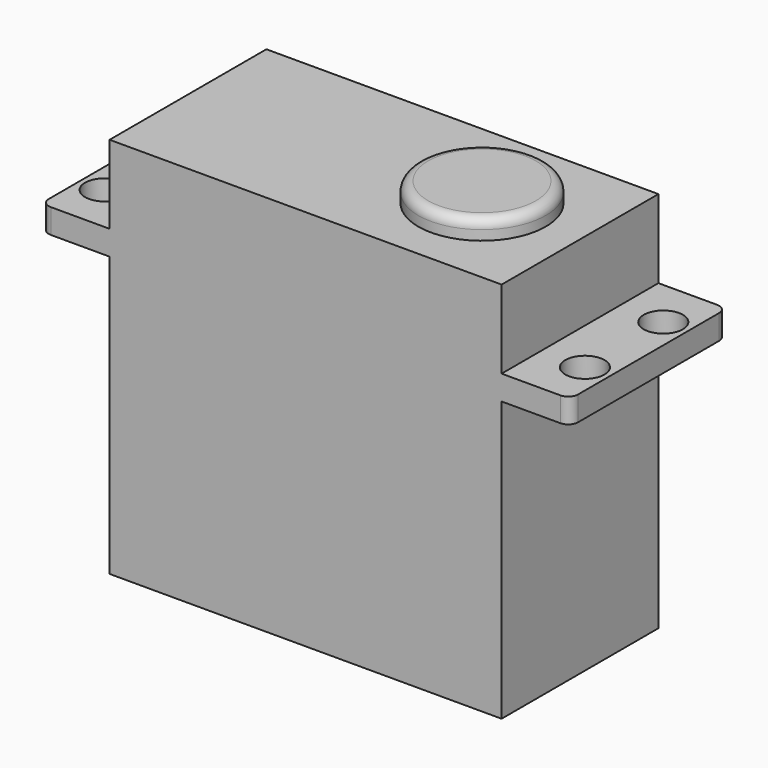
from build123d import *

# Parameters (mm, degrees)
PAD050_DEPTH    = 10
SKETCH087_R     = 2
POCKET033_DEPTH = 47.001
FILLET024_R     = 1
SKETCH235_R     = 6.5
PAD096_DEPTH    = 2
FILLET011_R     = 1


with BuildPart() as part:
    # Sketch086 → Pad050 (new body, symmetric)
    with BuildSketch(Plane.XZ):
        Polygon((-37, -18.5), (-37, -16), (-30, -16), (-30, -8), (10, -8), (10, -16), (17, -16), (17, -18.5), (10, -18.5), (10, -47), (-30, -47), (-30, -18.5), align=None)
    extrude(amount=PAD050_DEPTH, both=True)

    # Sketch087 → Pocket033 (cut, through all)
    with BuildSketch(Plane.XY):
        with Locations((14.5, 5)):
            Circle(SKETCH087_R)
        with Locations((14.5, -5)):
            Circle(SKETCH087_R)
        with Locations((-34.5, 5)):
            Circle(SKETCH087_R)
        with Locations((-34.5, -5)):
            Circle(SKETCH087_R)
    extrude(amount=-POCKET033_DEPTH, mode=Mode.SUBTRACT)

    # Fillet024
    fillet024_edges = [part.edges().sort_by_distance(p)[0] for p in [
        (17, -10, -17.25),
        (17, 10, -17.25),
        (-37, -10, -17.25),
        (-37, 10, -17.25),
    ]]
    fillet(fillet024_edges, radius=FILLET024_R)

    # Sketch235 (on Face12 of Fillet024) → Pad096 (join)
    with BuildSketch(Plane(origin=(0, 0, -8), x_dir=(-1, 0, 0), z_dir=(0, 0, 1))):
        Circle(SKETCH235_R)
    extrude(amount=PAD096_DEPTH)

    # Fillet011
    fillet011_edges = [part.edges().sort_by_distance(p)[0] for p in [
        (6.5, 0, -6),
    ]]
    fillet(fillet011_edges, radius=FILLET011_R)


with BuildPart() as part_1:
    # Body041 placement: moved
    add(part.part.moved(Location((0, 0, -1))))


solid = part_1.part
